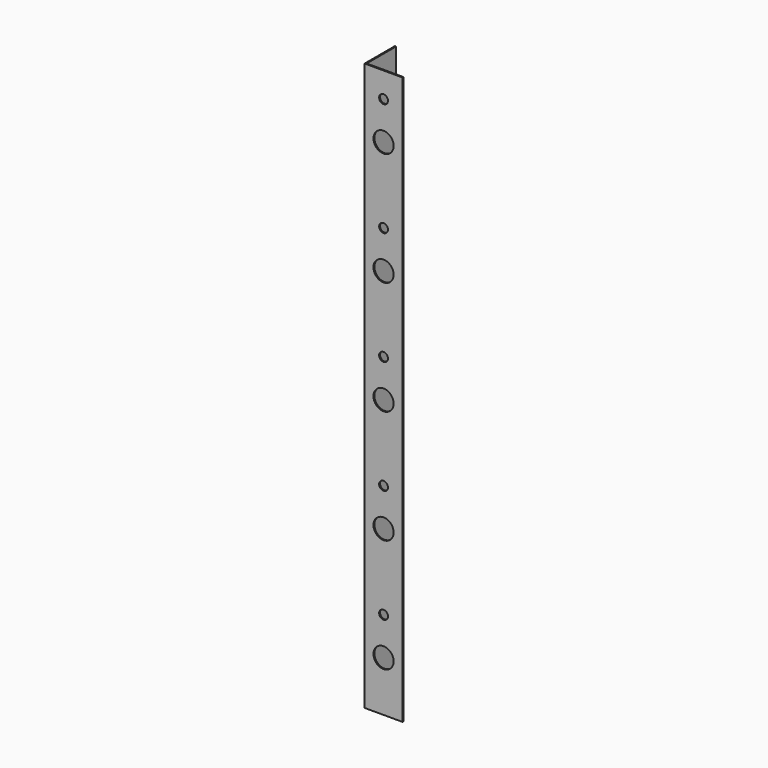
from build123d import *

# Parameters (mm, degrees)
F1_DEPTH = 225
F3_D     = 16
F4_D     = 7


with BuildPart() as f1:
    # F0 (on Top) → F1 (new body, symmetric)
    with BuildSketch(Plane.XY):
        Polygon((-15, -15), (15, -15), (15, -14.1), (-14.1, -14.1), (-14.1, 15), (-15, 15), align=None)
    extrude(amount=F1_DEPTH, both=True)

    # F3 (through all)
    with Locations(Plane.XZ.offset(15)):
        with Locations((0, 175), (0, 85), (0, -5), (0, -95), (0, -185)):
            Hole(F3_D / 2)

    # F4 (through all)
    with Locations(Plane.XZ.offset(15)):
        with Locations((0, -155), (0, -65), (0, 25), (0, 115), (0, 205)):
            Hole(F4_D / 2)


solid = f1.part
